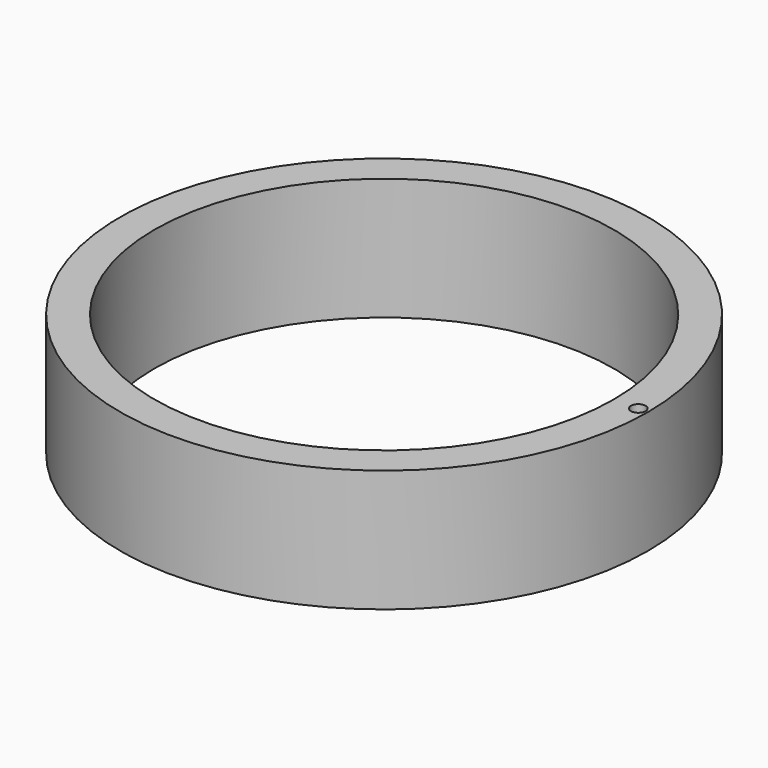
from build123d import *

# Parameters (mm, degrees)
CYLINDER1142_R     = 1.5
CYLINDER1142_DEPTH = 50
TUBE102_R          = 54
TUBE102_R_2        = 47
TUBE102_DEPTH      = 25


with BuildPart() as obj1:
    # Cylinder1142 → Cylinder1142 (new body)
    with BuildSketch(Plane(origin=(52, 0, 0), x_dir=(1, 0, 0), z_dir=(0, 0, 1))):
        Circle(CYLINDER1142_R)
    extrude(amount=CYLINDER1142_DEPTH)


with BuildPart() as obj2:
    # Tube102 → Tube102 (new body)
    with BuildSketch(Plane.XY.offset(20)):
        Circle(TUBE102_R)
        Circle(TUBE102_R_2, mode=Mode.SUBTRACT)
    extrude(amount=TUBE102_DEPTH)

    # Cut: cut obj1
    add(obj1.part, mode=Mode.SUBTRACT)


solid = obj2.part
